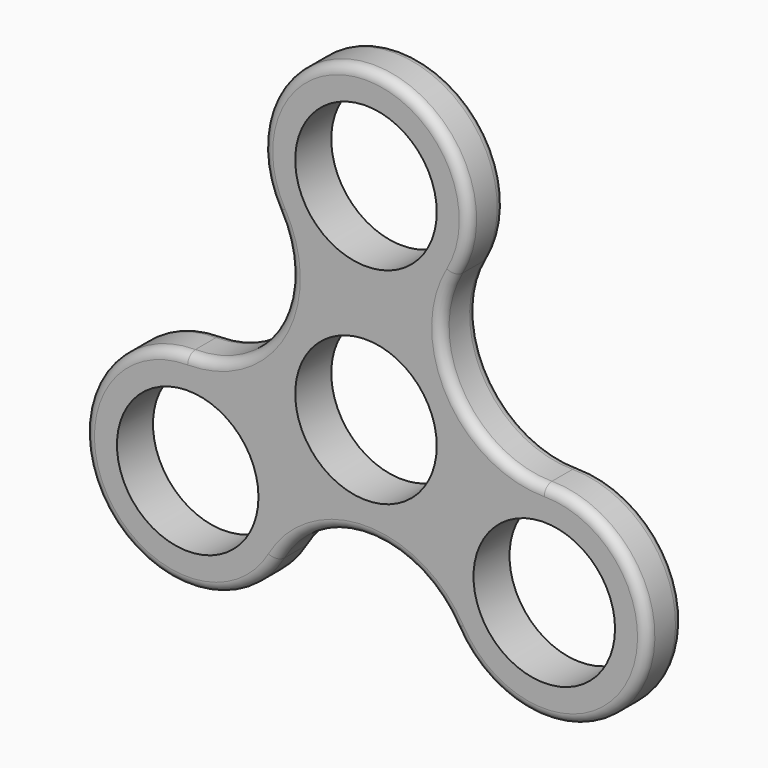
from build123d import *

# Parameters (mm, degrees)
F0_R     = 11
F1_DEPTH = 7
F2_R     = 1.5


with BuildPart() as f1:
    # F0 (on Front) → F1 (new body)
    with BuildSketch(Plane.XZ):
        with BuildLine():
            ThreePointArc((27.712813, 0), (13.856406, 8), (13.856406, 24))
            ThreePointArc((13.856406, 24), (0, 48), (-13.856406, 24))
            ThreePointArc((-13.856406, 24), (-13.856406, 8), (-27.712813, 0))
            ThreePointArc((-27.712813, 0), (-41.569219, -24), (-13.856406, -24))
            ThreePointArc((-13.856406, -24), (0, -16), (13.856406, -24))
            ThreePointArc((13.856406, -24), (41.569219, -24), (27.712813, 0))
        make_face()
        with Locations((-27.712813, -16)):
            Circle(F0_R, mode=Mode.SUBTRACT)
        with Locations((27.712813, -16)):
            Circle(F0_R, mode=Mode.SUBTRACT)
        Circle(F0_R, mode=Mode.SUBTRACT)
        with Locations((0, 32)):
            Circle(F0_R, mode=Mode.SUBTRACT)
    extrude(amount=F1_DEPTH)

    # F2
    f2_edges = [f1.edges().sort_by_distance(p)[0] for p in [
        (27.712813, -3.5, 0),
        (13.856406, -3.5, 24),
        (13.856406, 0, 8),
        (13.856406, -7, 8),
        (13.856406, -3.5, -24),
        (41.569219, 0, -24),
        (41.569219, -7, -24),
        (-13.856406, -3.5, 24),
        (0, 0, 48),
        (0, -7, 48),
        (-13.856406, -7, 8),
        (-27.712813, -3.5, 0),
        (-13.856406, 0, 8),
        (-13.856406, -3.5, -24),
        (-41.569219, 0, -24),
        (-41.569219, -7, -24),
        (0, 0, -16),
        (0, -7, -16),
    ]]
    fillet(f2_edges, radius=F2_R)


solid = f1.part
